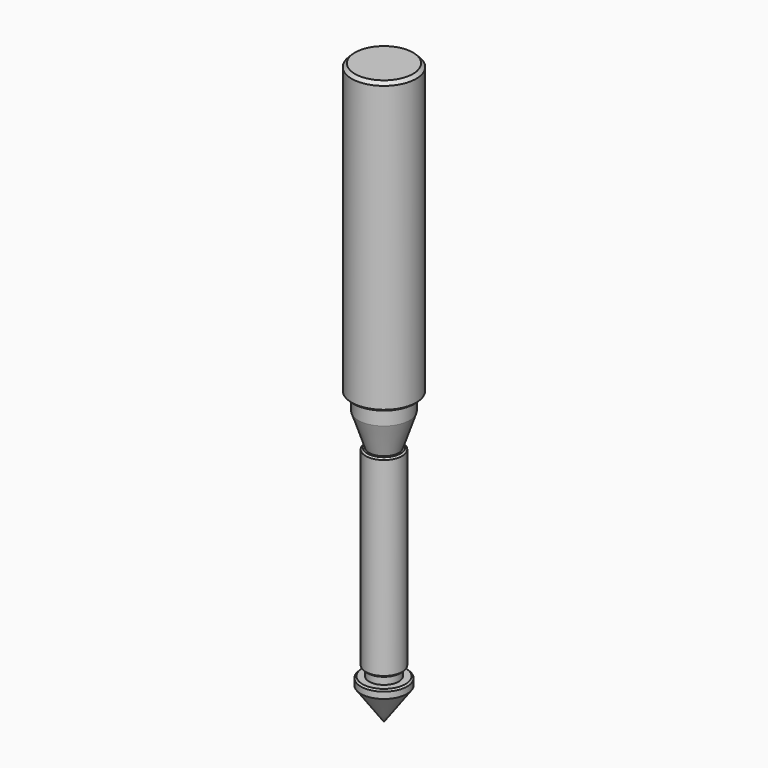
from build123d import *

# Parameters (mm, degrees)
F2_SIZE = 2.54
F3_SIZE = 1.27


with BuildPart() as f1:
    # F0 (on Front) → F1 (revolve)
    with BuildSketch(Plane.XZ):
        Polygon((0, -228.6), (0, 228.6), (-25.4, 228.6), (-25.4, 0), (-20.2219, 0), (-20.2219, -12.7), (-11.674506, -38.1), (-14.372522, -38.1), (-14.372522, -190.5), (-11.674506, -190.5), (-11.674506, -196.85), (-18.241385, -196.85), (-18.241385, -203.2), align=None)
    revolve(axis=Axis((0, 0, 0), (0, 0, -1)))

    # F2
    f2_edges = [f1.edges().sort_by_distance(p)[0] for p in [
        (25.4, 0, 228.6),
    ]]
    chamfer(f2_edges, length=F2_SIZE)

    # F3
    f3_edges = [f1.edges().sort_by_distance(p)[0] for p in [
        (25.4, 0, 0),
        (14.372522, 0, -38.1),
        (18.241385, 0, -196.85),
        (14.372522, 0, -190.5),
    ]]
    chamfer(f3_edges, length=F3_SIZE)


solid = f1.part
